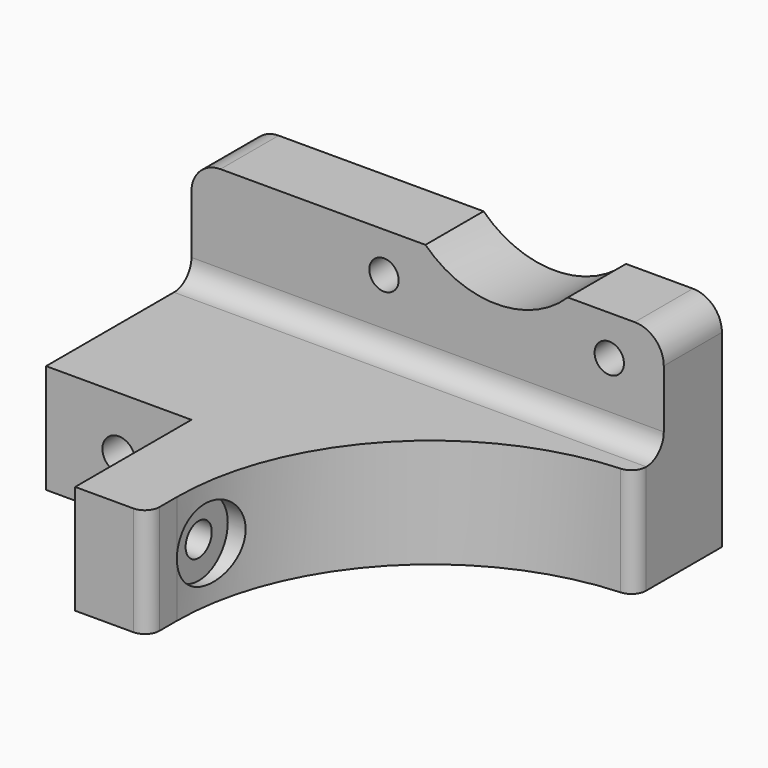
from build123d import *

# Parameters (mm, degrees)
PAD_DEPTH       = 15
SKETCH001_R     = 2.25
POCKET_DEPTH    = 35.001
SKETCH002_R     = 2.25
POCKET001_DEPTH = 45.001
SKETCH003_R     = 5
POCKET002_DEPTH = 36
SKETCH004_W     = 65
SKETCH004_H     = 10
PAD001_DEPTH    = 15
SKETCH005_R     = 2.019914
SKETCH005_R_2   = 14
POCKET003_DEPTH = 55.001
SKETCH006_R     = 4
POCKET004_DEPTH = 5
FILLET_R        = 3
FILLET001_R     = 4
FILLET002_R     = 2


with BuildPart() as part:
    # Sketch → Pad (new body)
    with BuildSketch(Plane.XY):
        with BuildLine():
            Line((45, 15), (-20, 15))
            Line((-20, 15), (-20, -20))
            Line((0, -20), (-20, -20))
            Line((0, -40), (0, -20))
            Line((0, -40), (10, -40))
            Line((10, -40), (10, -35.000001))
            ThreePointArc((45, 0), (20.251262, -10.251263), (10, -35.000001))
            Line((45, 0), (45, 15))
        make_face()
    extrude(amount=PAD_DEPTH)

    # Sketch001 → Pocket (cut, through all)
    with BuildSketch(Plane.XZ.offset(20)):
        with Locations((-10, 7.5)):
            Circle(SKETCH001_R)
    extrude(amount=-POCKET_DEPTH, mode=Mode.SUBTRACT)

    # Sketch002 → Pocket001 (cut, through all)
    with BuildSketch(Plane(origin=(0, 0, 0), x_dir=(0, -1, 0), z_dir=(-1, 0, 0))):
        with Locations((30, 7.5)):
            Circle(SKETCH002_R)
    extrude(amount=-POCKET001_DEPTH, mode=Mode.SUBTRACT)

    # Sketch003 → Pocket002 (cut)
    with BuildSketch(Plane.YZ.offset(45)):
        with Locations((-30, 7.5)):
            Circle(SKETCH003_R)
    extrude(amount=-POCKET002_DEPTH, mode=Mode.SUBTRACT)

    # Sketch004 → Pad001 (new body)
    with BuildSketch(Plane.XY.offset(15)):
        with Locations((12.5, 10)):
            Rectangle(SKETCH004_W, SKETCH004_H)
    extrude(amount=PAD001_DEPTH)

    # Sketch005 → Pocket003 (cut, through all)
    with BuildSketch(Plane(origin=(0, 15, 0), x_dir=(-1, 0, 0), z_dir=(0, 1, 0))):
        with Locations((-37.5, 24.5)):
            Circle(SKETCH005_R)
        with Locations((-6.5, 24.5)):
            Circle(SKETCH005_R)
        with Locations((-22, 40)):
            Circle(SKETCH005_R_2)
    extrude(amount=-POCKET003_DEPTH, mode=Mode.SUBTRACT)

    # Sketch006 → Pocket004 (cut)
    with BuildSketch(Plane(origin=(0, 15, 0), x_dir=(-1, 0, 0), z_dir=(0, 1, 0))):
        with Locations((-37.5, 24.5)):
            Circle(SKETCH006_R)
        with Locations((-6.5, 24.5)):
            Circle(SKETCH006_R)
    extrude(amount=-POCKET004_DEPTH, mode=Mode.SUBTRACT)

    # Fillet
    fillet_edges = [part.edges().sort_by_distance(p)[0] for p in [
        (12.5, 5, 15),
    ]]
    fillet(fillet_edges, radius=FILLET_R)

    # Fillet001
    fillet001_edges = [part.edges().sort_by_distance(p)[0] for p in [
        (-20, 10, 30),
        (45, 10, 30),
    ]]
    fillet(fillet001_edges, radius=FILLET001_R)

    # Fillet002
    fillet002_edges = [part.edges().sort_by_distance(p)[0] for p in [
        (45, 0, 7.5),
        (10, -40, 7.5),
    ]]
    fillet(fillet002_edges, radius=FILLET002_R)


solid = part.part
